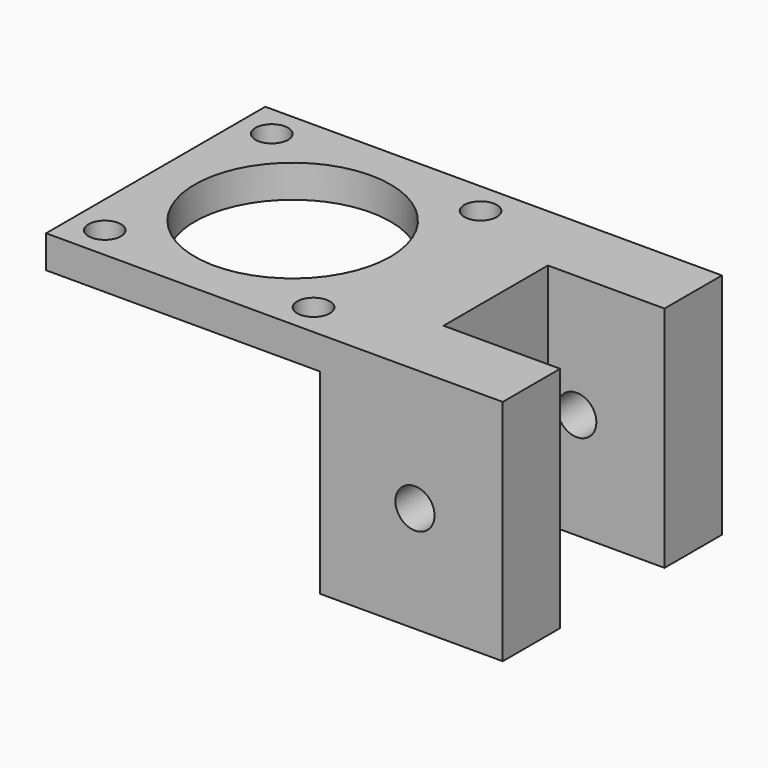
from build123d import *

# Parameters (mm, degrees)
F0_W          = 42
F0_H          = 42
F0_R          = 2.5
F0_R_2        = 15
F1_DEPTH      = 5
F2_DEPTH      = 5
F2_DEPTH_BACK = 30
F3_R          = 3
F4_DEPTH      = 50


with BuildPart() as f1:
    # F0 (on Top) → F1 (new body)
    with BuildSketch(Plane.XY):
        Rectangle(F0_W, F0_H)
        with Locations((-16.000001, -16.000001)):
            Circle(F0_R, mode=Mode.SUBTRACT)
        with Locations((16.000001, -16.000001)):
            Circle(F0_R, mode=Mode.SUBTRACT)
        Circle(F0_R_2, mode=Mode.SUBTRACT)
        with Locations((-16.000001, 16.000001)):
            Circle(F0_R, mode=Mode.SUBTRACT)
        with Locations((16.000001, 16.000001)):
            Circle(F0_R, mode=Mode.SUBTRACT)
    extrude(amount=F1_DEPTH)

    # F0 (on Top) → F2 (join, two sides)
    with BuildSketch(Plane.XY) as f2_sk:
        Polygon((49, 21), (21, 21), (21, -21), (49, -21), (49, -10), (31.125, -10), (31.125, 10), (49, 10), align=None)
    extrude(amount=F2_DEPTH)
    extrude(f2_sk.sketch, amount=-F2_DEPTH_BACK)

    # F3 (on face) → F4 (cut)
    with BuildSketch(Plane.XZ.offset(21)):
        with Locations((35.550814, -13.738759)):
            Circle(F3_R)
    extrude(amount=-F4_DEPTH, mode=Mode.SUBTRACT)


solid = f1.part
